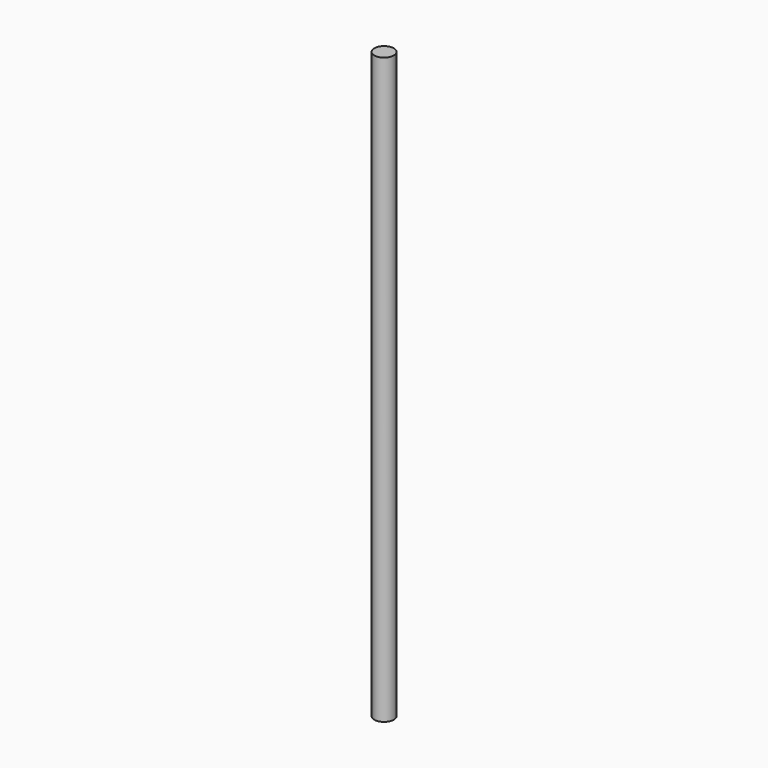
from build123d import *

# Parameters (mm, degrees)
F0_R     = 12.7
F1_DEPTH = 762
F3_D     = 3.175
F3_DEPTH = 12.701


with BuildPart() as f1:
    # F0 (on Top) → F1 (new body)
    with BuildSketch(Plane.XY):
        Circle(F0_R)
    extrude(amount=F1_DEPTH)

    # F3 (through all, one way)
    with BuildSketch(Plane.XZ):
        with Locations((0, 736.6), (0, 685.8)):
            Circle(F3_D / 2)
    extrude(amount=-F3_DEPTH, mode=Mode.SUBTRACT)


solid = f1.part
